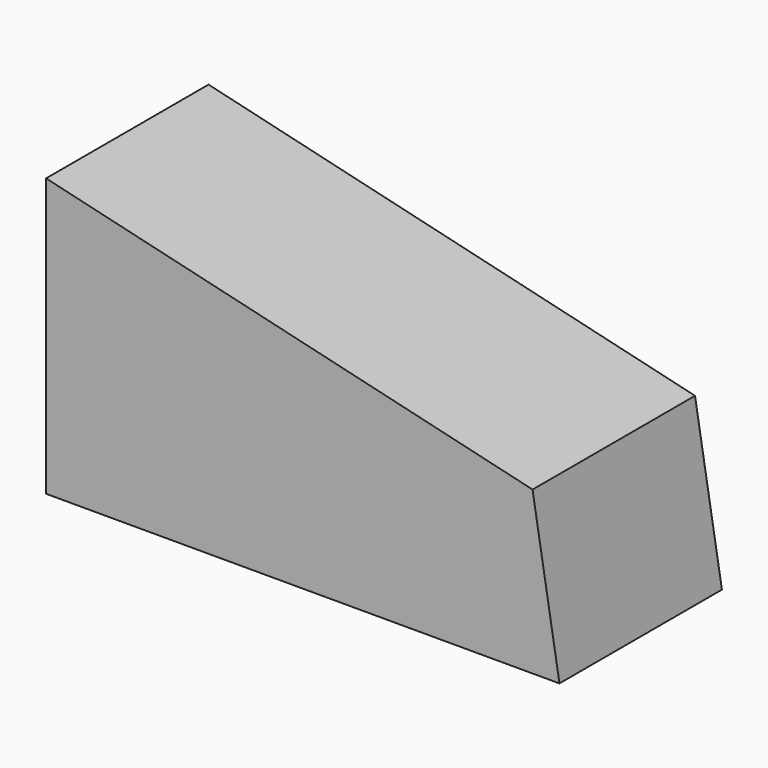
from build123d import *

# Parameters (mm, degrees)
F1_DEPTH = 25.4
F3_D     = 6.6
F3_DEPTH = 12.7
F3_TIP   = 1.9828400428


with BuildPart() as f1:
    # F0 (on Front) → F1 (new body)
    with BuildSketch(Plane.XZ):
        Polygon((-3.3652072307, 20.2556531876), (-64.2102658749, 34.7338579595), (-64.2102658749, 0), (0, 0), align=None)
    extrude(amount=F1_DEPTH)

    # F3
    with Locations(Plane(origin=(0, 0, 0), x_dir=(-1, 0, 0), z_dir=(0, 1, 0))):
        with Locations((32.2950705886, 16.1637682468)):
            Hole(F3_D / 2, depth=F3_DEPTH)
            with Locations((0, 0, -(F3_DEPTH + F3_TIP / 2))):  # 118° drill point
                Cone(0, F3_D / 2, F3_TIP, mode=Mode.SUBTRACT)


solid = f1.part
